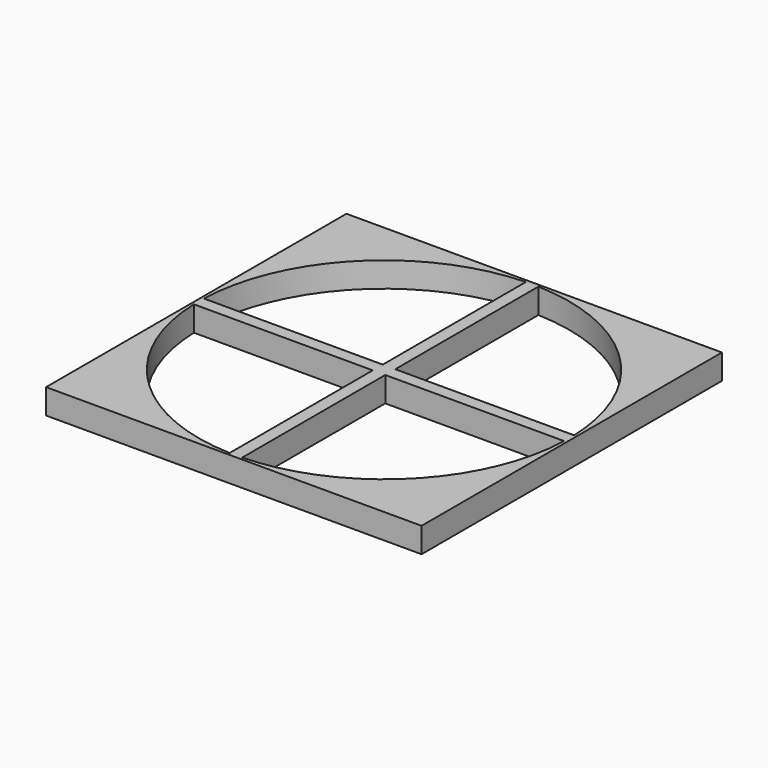
from build123d import *

# Parameters (mm, degrees)
F0_W     = 5
F0_H     = 5
F1_DEPTH = 10


with BuildPart() as f1:
    # F0 (on Top) → F1 (new body)
    with BuildSketch(Plane.XY):
        with BuildLine():
            Line((2.5, -2.5), (73.9577582137, -2.5))
            ThreePointArc((73.9577582137, -2.5), (73.9894387998, -1.2501784241), (74, 0))
            ThreePointArc((74, 0), (73.9894387998, 1.2501784241), (73.9577582137, 2.5))
            Line((73.9577582137, 2.5), (2.5, 2.5))
            Line((2.5, 2.5), (2.5, -2.5))
        make_face()
        with BuildLine():
            Line((-2.5, 2.5), (2.5, 2.5))
            Line((2.5, 2.5), (2.5, 73.9577582137))
            ThreePointArc((2.5, 73.9577582137), (0, 74), (-2.5, 73.9577582137))
            Line((-2.5, 73.9577582137), (-2.5, 2.5))
        make_face()
        with BuildLine():
            ThreePointArc((-2.5, -73.9577582137), (0, -74), (2.5, -73.9577582137))
            Line((2.5, -73.9577582137), (2.5, -2.5))
            Line((2.5, -2.5), (-2.5, -2.5))
            Line((-2.5, -2.5), (-2.5, -73.9577582137))
        make_face()
        with BuildLine():
            Line((-75, 2.5), (-75, -2.5))
            Line((-75, -2.5), (-73.9577582137, -2.5))
            ThreePointArc((-73.9577582137, -2.5), (-74, 0), (-73.9577582137, 2.5))
            Line((-73.9577582137, 2.5), (-75, 2.5))
        make_face()
        with BuildLine():
            Line((2.5, 73.9577582137), (2.5, 75))
            Line((2.5, 75), (-2.5, 75))
            Line((-2.5, 75), (-2.5, 73.9577582137))
            ThreePointArc((-2.5, 73.9577582137), (0, 74), (2.5, 73.9577582137))
        make_face()
        with BuildLine():
            Line((-2.5, -75), (2.5, -75))
            Line((2.5, -75), (2.5, -73.9577582137))
            ThreePointArc((2.5, -73.9577582137), (0, -74), (-2.5, -73.9577582137))
            Line((-2.5, -73.9577582137), (-2.5, -75))
        make_face()
        with BuildLine():
            Line((-73.9577582137, -2.5), (-2.5, -2.5))
            Line((-2.5, -2.5), (-2.5, 2.5))
            Line((-2.5, 2.5), (-73.9577582137, 2.5))
            ThreePointArc((-73.9577582137, 2.5), (-74, 0), (-73.9577582137, -2.5))
        make_face()
        with BuildLine():
            Line((73.9577582137, -2.5), (75, -2.5))
            Line((75, -2.5), (75, 2.5))
            Line((75, 2.5), (73.9577582137, 2.5))
            ThreePointArc((73.9577582137, 2.5), (73.9894387998, 1.2501784241), (74, 0))
            ThreePointArc((74, 0), (73.9894387998, -1.2501784241), (73.9577582137, -2.5))
        make_face()
        Rectangle(F0_W, F0_H)
        with BuildLine():
            Line((-75, -75), (-2.5, -75))
            Line((-2.5, -75), (-2.5, -73.9577582137))
            ThreePointArc((-2.5, -73.9577582137), (-52.3259018078, -52.3259018078), (-73.9577582137, -2.5))
            Line((-73.9577582137, -2.5), (-75, -2.5))
            Line((-75, -2.5), (-75, -75))
        make_face()
        with BuildLine():
            Line((2.5, -75), (75, -75))
            Line((75, -75), (75, -2.5))
            Line((75, -2.5), (73.9577582137, -2.5))
            ThreePointArc((73.9577582137, -2.5), (52.3259018078, -52.3259018078), (2.5, -73.9577582137))
            Line((2.5, -73.9577582137), (2.5, -75))
        make_face()
        with BuildLine():
            Line((-75, 75), (-75, 2.5))
            Line((-75, 2.5), (-73.9577582137, 2.5))
            ThreePointArc((-73.9577582137, 2.5), (-52.3259018078, 52.3259018078), (-2.5, 73.9577582137))
            Line((-2.5, 73.9577582137), (-2.5, 75))
            Line((-2.5, 75), (-75, 75))
        make_face()
        with BuildLine():
            Line((73.9577582137, 2.5), (75, 2.5))
            Line((75, 2.5), (75, 75))
            Line((75, 75), (2.5, 75))
            Line((2.5, 75), (2.5, 73.9577582137))
            ThreePointArc((2.5, 73.9577582137), (52.3259018078, 52.3259018078), (73.9577582137, 2.5))
        make_face()
    extrude(amount=F1_DEPTH)


solid = f1.part
